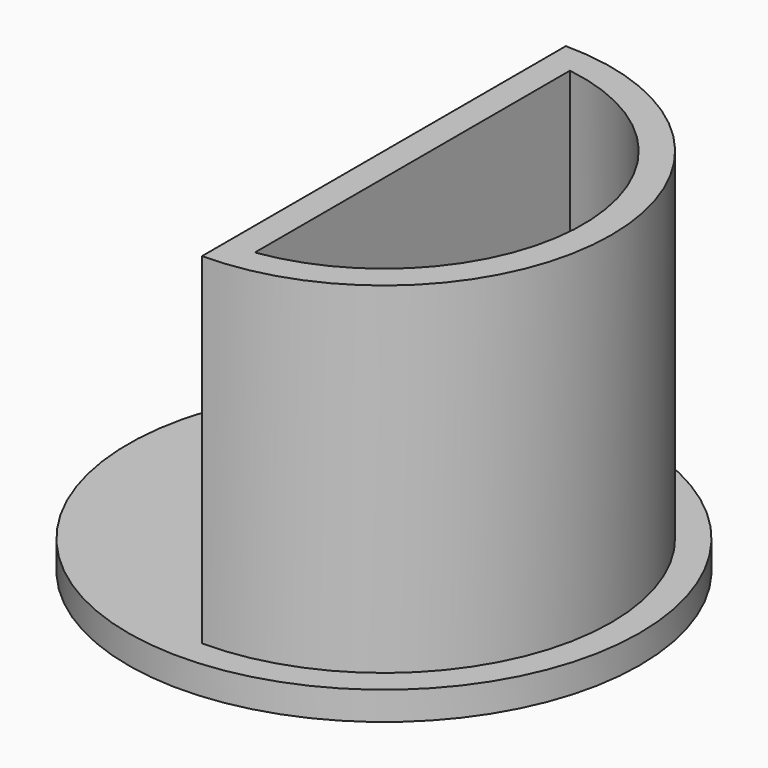
from build123d import *

# Parameters (mm, degrees)
F1_DEPTH = 13
F0_R     = 9
F2_DEPTH = 1


with BuildPart() as f1:
    # F0 (on Top) → F1 (new body)
    with BuildSketch(Plane.XY):
        with BuildLine():
            Line((0, 8), (0, -8))
            ThreePointArc((0, -8), (8, 0), (0, 8))
        make_face()
        with BuildLine():
            ThreePointArc((1, 6.928203), (7, 0), (1, -6.928203))
            Line((1, -6.928203), (1, 6.928203))
        make_face(mode=Mode.SUBTRACT)
    extrude(amount=F1_DEPTH)

    # F0 (on Top) → F2 (join)
    with BuildSketch(Plane.XY):
        Circle(F0_R)
        with BuildLine():
            ThreePointArc((0, 8), (8, 0), (0, -8))
            Line((0, -8), (0, 8))
        make_face(mode=Mode.SUBTRACT)
    extrude(amount=F2_DEPTH)


solid = f1.part
